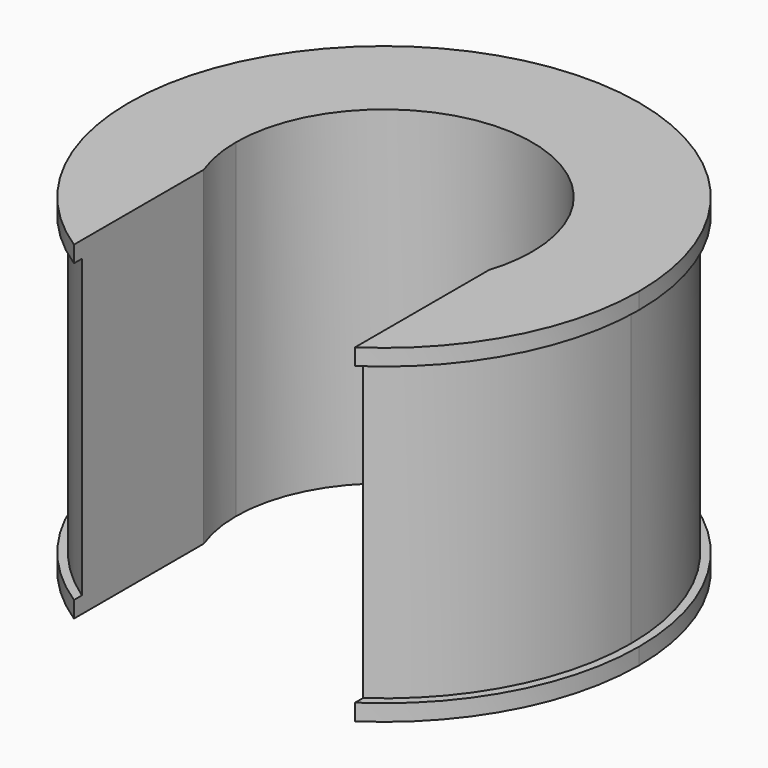
from build123d import *

# Parameters (mm, degrees)
F1_DEPTH = 20
F2_DEPTH = 1
F3_START = 19
F3_DEPTH = 1


with BuildPart() as f1:
    # F0 (on Top) → F1 (new body)
    with BuildSketch(Plane.XY):
        with BuildLine():
            ThreePointArc((-9, 0), (0, 9), (9, 0))
            ThreePointArc((9, 0), (8.89226485, -1.388389656), (8.5716387029, -2.7435396748))
            Line((8.5716387029, -2.7435396748), (8.5716387029, -12.3096307803))
            ThreePointArc((8.5716387029, -12.3096307803), (13.2961381714, -6.9435372634), (15, 0))
            ThreePointArc((15, 0), (-7.0204907429, 13.2556670797), (-8.4283612971, -12.4081717366))
            Line((-8.4283612971, -12.4081717366), (-8.4283612971, -3.1563785967))
            ThreePointArc((-8.4283612971, -3.1563785967), (-8.8559373212, -1.6038622644), (-9, 0))
        make_face()
    extrude(amount=F1_DEPTH)

    # F0 (on Top) → F2 (join)
    with BuildSketch(Plane.XY):
        with BuildLine():
            ThreePointArc((15, 0), (13.2961381714, -6.9435372634), (8.5716387029, -12.3096307803))
            Line((8.5716387029, -12.3096307803), (8.5716387029, -12.9142173571))
            ThreePointArc((8.5716387029, -12.9142173571), (13.6585211479, -7.3276735771), (15.5, 0))
            ThreePointArc((15.5, 0), (-7.4030534205, 13.6178118673), (-8.4283612971, -13.0081791902))
            Line((-8.4283612971, -13.0081791902), (-8.4283612971, -12.4081717366))
            ThreePointArc((-8.4283612971, -12.4081717366), (-7.0204907429, 13.2556670797), (15, 0))
        make_face()
    extrude(amount=F2_DEPTH)

    # F0 (on Top) → F3 (join)
    with BuildSketch(Plane.XY.offset(F3_START)):
        with BuildLine():
            ThreePointArc((15, 0), (13.2961381714, -6.9435372634), (8.5716387029, -12.3096307803))
            Line((8.5716387029, -12.3096307803), (8.5716387029, -12.9142173571))
            ThreePointArc((8.5716387029, -12.9142173571), (13.6585211479, -7.3276735771), (15.5, 0))
            ThreePointArc((15.5, 0), (-7.4030534205, 13.6178118673), (-8.4283612971, -13.0081791902))
            Line((-8.4283612971, -13.0081791902), (-8.4283612971, -12.4081717366))
            ThreePointArc((-8.4283612971, -12.4081717366), (-7.0204907429, 13.2556670797), (15, 0))
        make_face()
    extrude(amount=F3_DEPTH)


solid = f1.part
